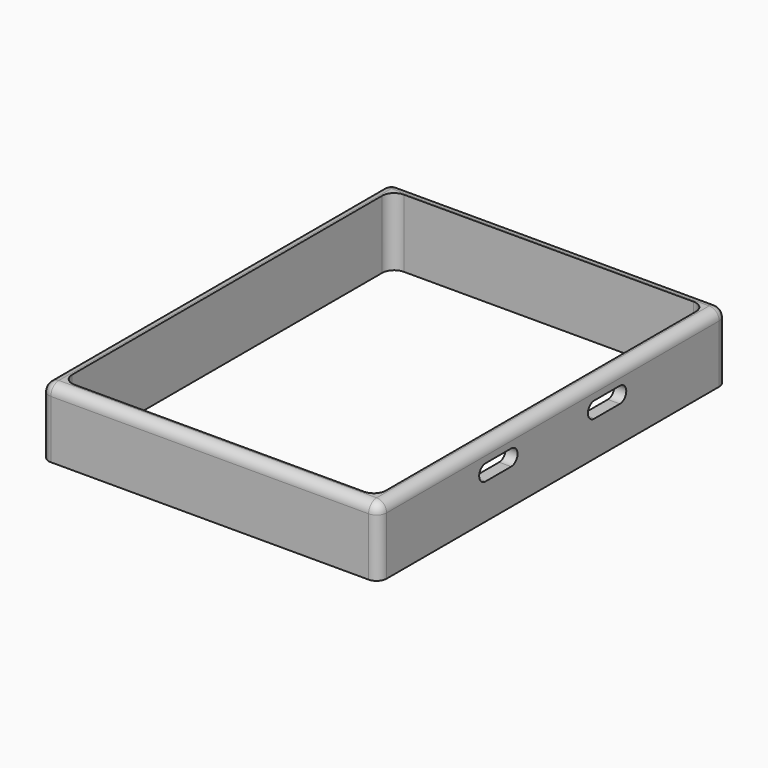
from build123d import *

# Parameters (mm, degrees)
SKETCH010_W     = 84.5
SKETCH010_H     = 109
SKETCH010_W_2   = 78.5
SKETCH010_H_2   = 103
PAD006_DEPTH    = 17
FILLET_R        = 3
FILLET002_R     = 2.5
POCKET021_DEPTH = 3


with BuildPart() as part:
    # Sketch010 → Pad006 (new body)
    with BuildSketch(Plane.XY):
        with Locations((4.75, 6.5)):
            Rectangle(SKETCH010_W, SKETCH010_H)
        with Locations((4.75, 6.5)):
            Rectangle(SKETCH010_W_2, SKETCH010_H_2, mode=Mode.SUBTRACT)
    extrude(amount=-PAD006_DEPTH)

    # Fillet
    fillet_edges = [part.edges().sort_by_distance(p)[0] for p in [
        (-34.5, 58, -8.5),
        (-34.5, -45, -8.5),
        (44, 58, -8.5),
        (44, -45, -8.5),
    ]]
    fillet(fillet_edges, radius=FILLET_R)

    # Fillet002
    fillet002_edges = [part.edges().sort_by_distance(p)[0] for p in [
        (47, 61, -8.5),
        (-37.5, 61, -8.5),
        (47, -48, -8.5),
        (-37.5, -48, -8.5),
        (-37.5, 6.5, 0),
        (4.75, -48, 0),
        (47, 6.5, 0),
        (4.75, 61, 0),
    ]]
    fillet(fillet002_edges, radius=FILLET002_R)

    # Sketch053 (on Face21 of Fillet002) → Pocket021 (cut)
    with BuildSketch(Plane.YZ.offset(47)):
        with BuildLine():
            ThreePointArc((-14.543243, -4.151807), (-16.543243, -6.151807), (-14.543243, -8.151807))
            Line((-14.543243, -8.151807), (-6.543243, -8.151807))
            ThreePointArc((-6.543243, -8.151807), (-4.543243, -6.151807), (-6.543243, -4.151807))
            Line((-6.543243, -4.151807), (-14.543243, -4.151807))
        make_face()
        with BuildLine():
            ThreePointArc((19.456757, -4.151807), (17.456757, -6.151807), (19.456757, -8.151807))
            Line((19.456757, -8.151807), (27.456757, -8.151807))
            ThreePointArc((27.456757, -8.151807), (29.456757, -6.151807), (27.456757, -4.151807))
            Line((27.456757, -4.151807), (19.456757, -4.151807))
        make_face()
    extrude(amount=-POCKET021_DEPTH, mode=Mode.SUBTRACT)


with BuildPart() as part_1:
    # Body005 placement: moved
    add(part.part.moved(Location((0, 0, 4.5))))


solid = part_1.part
